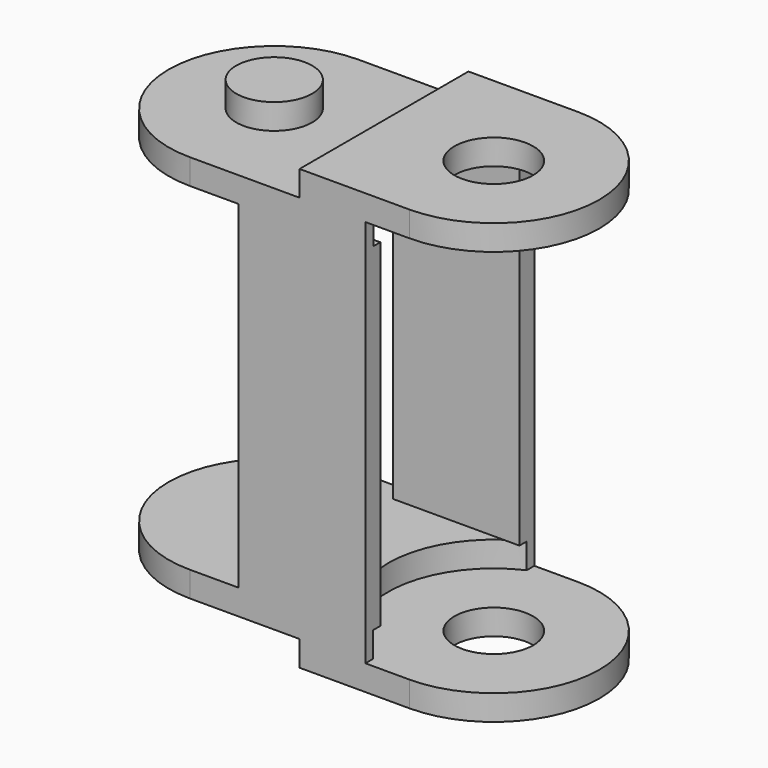
from build123d import *

# Parameters (mm, degrees)
SKETCH_R        = 2.33
PAD_DEPTH       = 26
SKETCH001_R     = 2.25
POCKET_DEPTH    = 1.5
SKETCH002_R     = 2.25
POCKET001_DEPTH = 1.5
SKETCH003_W     = 20
SKETCH003_H     = 23
SKETCH003_H_2   = 20
POCKET002_DEPTH = 12.501
SKETCH004_W     = 10.3
SKETCH004_H     = 20
POCKET003_DEPTH = 16.351
SKETCH005_R     = 6.250841
POCKET004_DEPTH = 1.5
SKETCH006_R     = 6.25
POCKET005_DEPTH = 1.5


with BuildPart() as part:
    # Sketch → Pad (new body)
    with BuildSketch(Plane.XY):
        with BuildLine():
            ThreePointArc((-6.5, 6.25), (-12.75, -1e-06), (-6.499997, -6.25))
            Line((-6.499997, -6.25), (6.500003, -6.25))
            ThreePointArc((6.500003, -6.25), (12.75, 1e-06), (6.5, 6.25))
            Line((6.5, 6.25), (-6.5, 6.25))
        make_face()
        with Locations((6.5, 0)):
            Circle(SKETCH_R, mode=Mode.SUBTRACT)
    extrude(amount=PAD_DEPTH)

    # Sketch001 → Pocket (cut)
    with BuildSketch(Plane.XY.offset(26)):
        with BuildLine():
            ThreePointArc((-6.5, 6.25), (-12.75, -1e-06), (-6.499997, -6.25))
            Line((-6.499997, -6.25), (0, -6.25))
            Line((0, 6.25), (0, -6.25))
            Line((-6.5, 6.25), (0, 6.25))
        make_face()
        with Locations((-6.5, 0)):
            Circle(SKETCH001_R, mode=Mode.SUBTRACT)
    extrude(amount=-POCKET_DEPTH, mode=Mode.SUBTRACT)

    # Sketch002 → Pocket001 (cut)
    with BuildSketch(Plane(origin=(0, 0, 0), x_dir=(1, 0, 0), z_dir=(0, 0, -1))):
        with BuildLine():
            Line((0, 6.25), (-6.499997, 6.25))
            ThreePointArc((-6.499997, 6.25), (-12.75, 1e-06), (-6.5, -6.25))
            Line((0, -6.25), (-6.5, -6.25))
            Line((0, -6.25), (0, 6.25))
        make_face()
        with Locations((-6.5, 0)):
            Circle(SKETCH002_R, mode=Mode.SUBTRACT)
    extrude(amount=-POCKET001_DEPTH, mode=Mode.SUBTRACT)

    # Sketch003 → Pocket002 (cut, through all)
    with BuildSketch(Plane(origin=(0, 6.25, 0), x_dir=(-1, 0, 0), z_dir=(0, 1, 0))):
        with Locations((-13.9, 13)):
            Rectangle(SKETCH003_W, SKETCH003_H)
        with Locations((13.6, 13)):
            Rectangle(SKETCH003_W, SKETCH003_H_2)
    extrude(amount=-POCKET002_DEPTH, mode=Mode.SUBTRACT)

    # Sketch004 → Pocket003 (cut, through all)
    with BuildSketch(Plane(origin=(-3.6, 0, 0), x_dir=(0, -1, 0), z_dir=(-1, 0, 0))):
        with Locations((0, 13)):
            Rectangle(SKETCH004_W, SKETCH004_H)
    extrude(amount=-POCKET003_DEPTH, mode=Mode.SUBTRACT)

    # Sketch005 → Pocket004 (cut)
    with BuildSketch(Plane(origin=(0, 0, 24.5), x_dir=(1, 0, 0), z_dir=(0, 0, -1))):
        with Locations((6.602507, 0)):
            Circle(SKETCH005_R)
    extrude(amount=POCKET004_DEPTH, mode=Mode.SUBTRACT)

    # Sketch006 → Pocket005 (cut)
    with BuildSketch(Plane.XY.offset(1.5)):
        with Locations((6.5, 0)):
            Circle(SKETCH006_R)
    extrude(amount=POCKET005_DEPTH, mode=Mode.SUBTRACT)


solid = part.part
